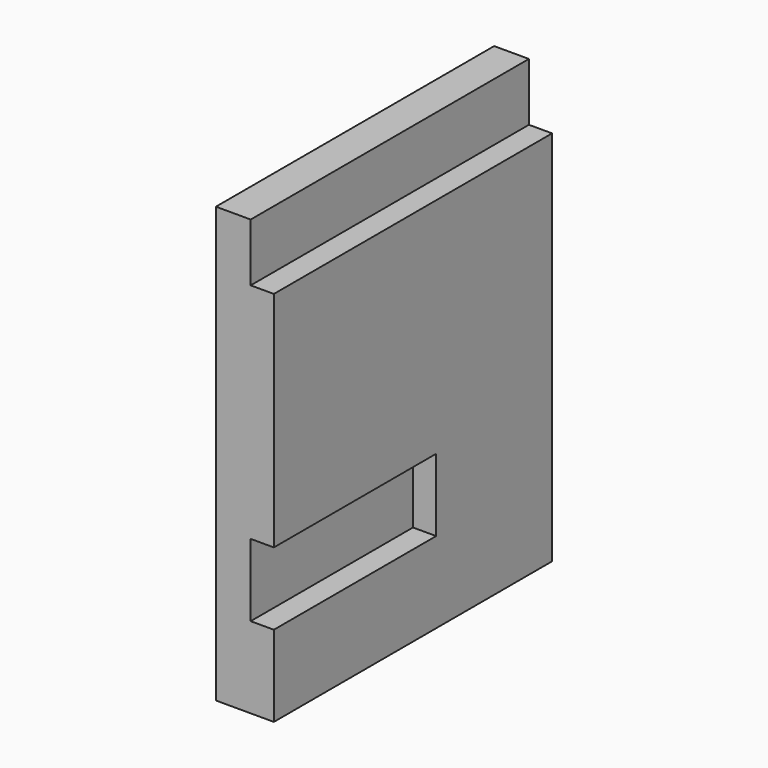
from build123d import *

# Parameters (mm, degrees)
F1_DEPTH = 120
F0_W     = 8
F0_H     = 25
F2_DEPTH = 50


with BuildPart() as f1:
    # F0 (on Front) → F1 (new body)
    with BuildSketch(Plane.XZ):
        Polygon((-64.275553, 75.000004), (-76.275553, 75.000004), (-76.275553, -74.999996), (-56.275553, -74.999996), (-56.275553, -46.999996), (-64.275553, -46.999996), (-64.275553, -21.999996), (-56.275553, -21.999996), (-56.275553, 55.000004), (-64.275553, 55.000004), align=None)
    extrude(amount=F1_DEPTH)

    # F0 (on Front) → F2 (join)
    with BuildSketch(Plane.XZ):
        with Locations((-60.275553, -34.499996)):
            Rectangle(F0_W, F0_H)
    extrude(amount=F2_DEPTH)


solid = f1.part
